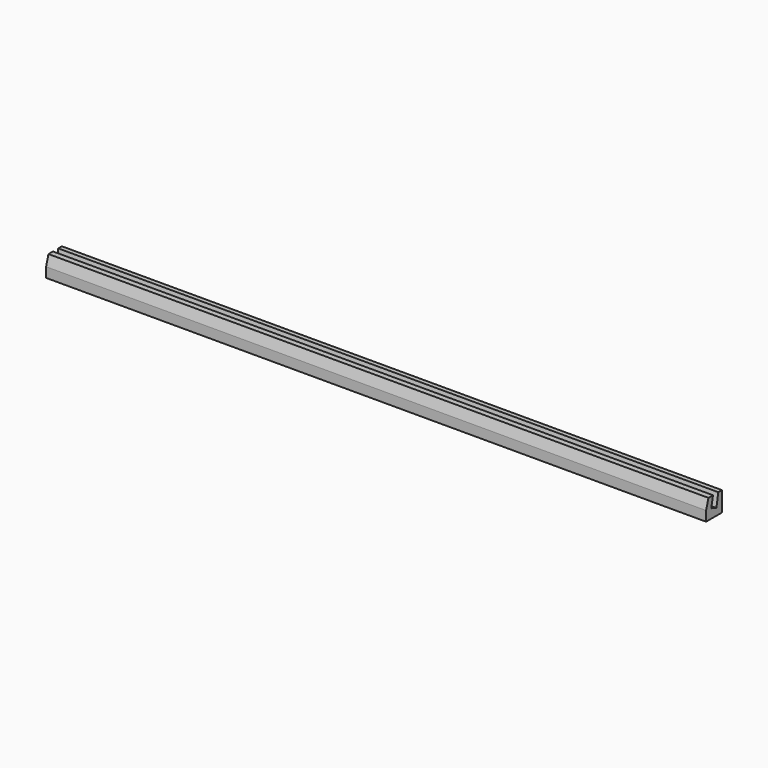
from build123d import *

# Parameters (mm, degrees)
F0_W     = 1000
F0_H     = 30
F1_DEPTH = 30
F3_DEPTH = 2027
F5_DEPTH = 2087


with BuildPart() as f1:
    # F0 (on Front) → F1 (new body)
    with BuildSketch(Plane.XZ):
        with Locations((-500, 24.806101)):
            Rectangle(F0_W, F0_H)
    extrude(amount=F1_DEPTH)

    # F2 (on face) → F3 (cut)
    with BuildSketch(Plane(origin=(-1000, 0, 0), x_dir=(0, -1, 0), z_dir=(-1, 0, 0))):
        Polygon((20.216802, 23.715444), (16.909165, 39.806101), (6.909165, 39.806101), (10.394015, 20.198643), align=None)
    extrude(amount=-F3_DEPTH, mode=Mode.SUBTRACT)

    # F4 (on face) → F5 (cut)
    with BuildSketch(Plane(origin=(-1000, 0, 0), x_dir=(0, -1, 0), z_dir=(-1, 0, 0))):
        Polygon((30, 39.806101), (22.5, 49.806101), (30, 24.806101), align=None)
    extrude(amount=-F5_DEPTH, mode=Mode.SUBTRACT)


solid = f1.part
